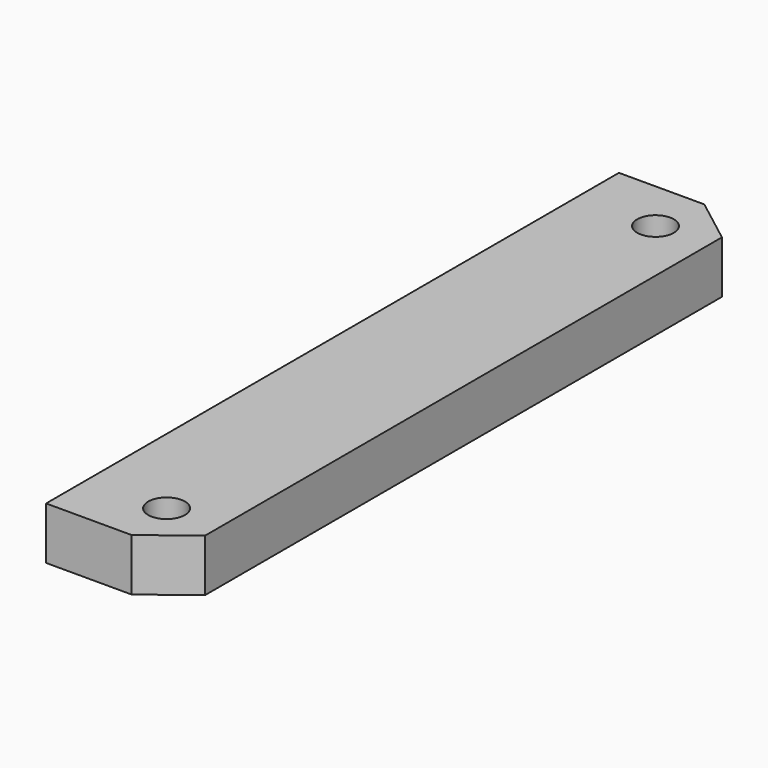
from build123d import *

# Parameters (mm, degrees)
SKETCH_R  = 2.1
PAD_DEPTH = 6


with BuildPart() as part:
    # Sketch → Pad (new body)
    with BuildSketch(Plane.XY):
        Polygon((0, 82), (0, 0), (9.787406, 0), (14.999606, 4), (14.999606, 78), (9.787406, 82), align=None)
        with Locations((9, 6)):
            Circle(SKETCH_R, mode=Mode.SUBTRACT)
        with Locations((9, 76)):
            Circle(SKETCH_R, mode=Mode.SUBTRACT)
    extrude(amount=PAD_DEPTH)


solid = part.part
